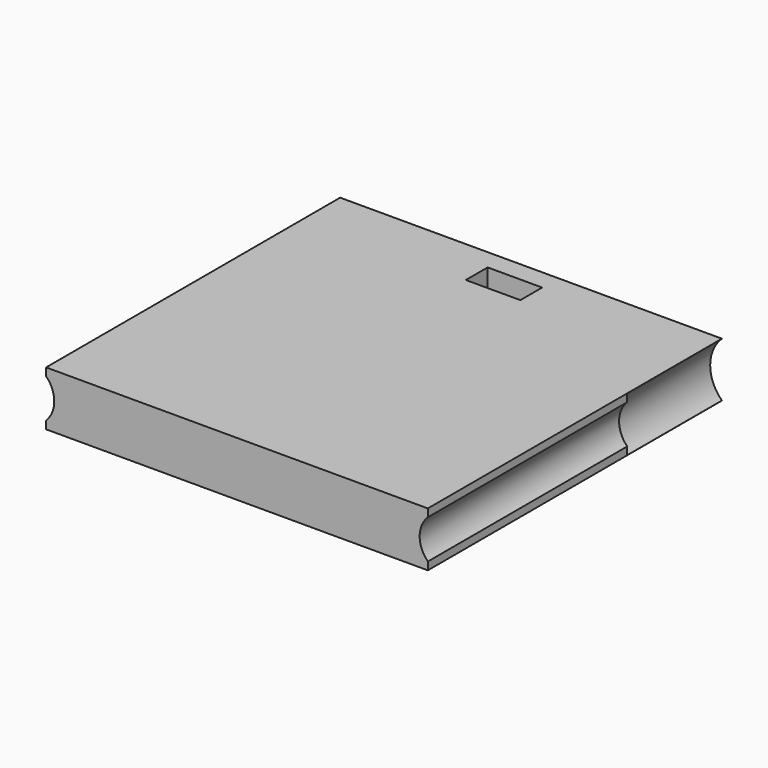
from build123d import *

# Parameters (mm, degrees)
SKETCH001_R     = 5
PAD001_DEPTH    = 35
SKETCH_W        = 70
SKETCH_H        = 67.4
PAD_DEPTH       = 5
SKETCH002_W     = 10
SKETCH002_H     = 5
POCKET_DEPTH    = 10.001
SKETCH003_R     = 6.85
POCKET001_DEPTH = 21.7


with BuildPart() as pad001:
    # Sketch001 → Pad001 (new body, symmetric)
    with BuildSketch(Plane.XZ):
        with Locations((-38.5, 0)):
            Circle(SKETCH001_R)
        with Locations((38.5, 0)):
            Circle(SKETCH001_R)
    extrude(amount=PAD001_DEPTH, both=True)


with BuildPart() as pocket001:
    # Sketch → Pad (new body, symmetric)
    with BuildSketch(Plane.XY):
        Rectangle(SKETCH_W, SKETCH_H)
    extrude(amount=PAD_DEPTH, both=True)

    # Cut: cut Pad001
    add(pad001.part, mode=Mode.SUBTRACT)

    # Sketch002 → Pocket (cut, through all)
    with BuildSketch(Plane.XY.offset(5)):
        with Locations((0, 27.5)):
            Rectangle(SKETCH002_W, SKETCH002_H)
    extrude(amount=-POCKET_DEPTH, mode=Mode.SUBTRACT)

    # Sketch003 → Pocket001 (cut)
    with BuildSketch(Plane(origin=(0, 33.7, 0), x_dir=(-1, 0, 0), z_dir=(0, 1, 0))):
        with Locations((-39.7, 0)):
            Circle(SKETCH003_R)
        with Locations((39.7, 0)):
            Circle(SKETCH003_R)
    extrude(amount=-POCKET001_DEPTH, mode=Mode.SUBTRACT)


solid = pocket001.part
